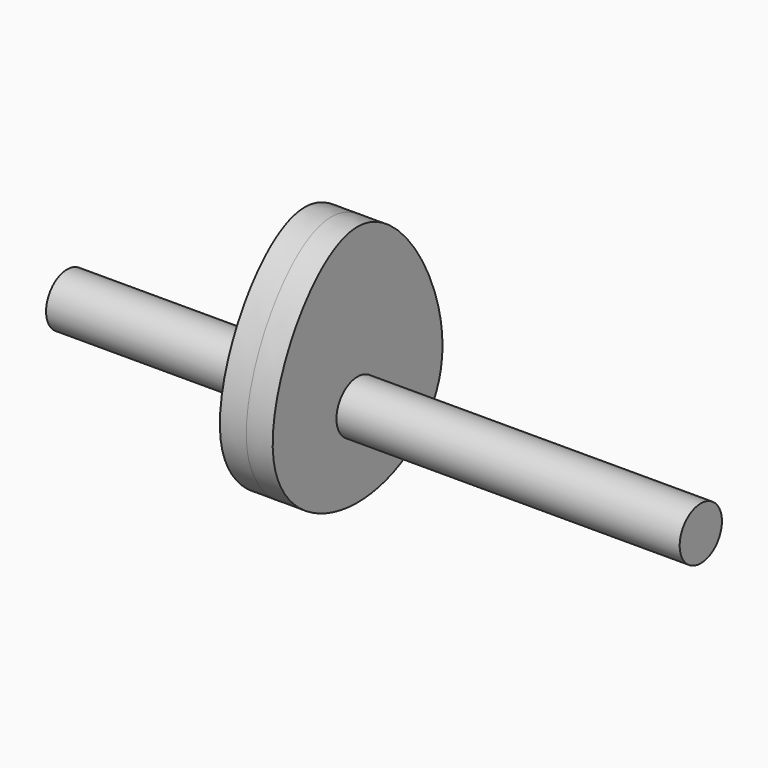
from build123d import *

# Parameters (mm, degrees)
F0_R          = 2.5
F1_DEPTH      = 35
F1_DEPTH_BACK = 25
F2_DEPTH      = 2.5
F2_DEPTH_BACK = 2.5


with BuildPart() as f1:
    # F0 (on Right) → F1 (new body, two sides)
    with BuildSketch(Plane.YZ) as f1_sk:
        Circle(F0_R)
    extrude(amount=F1_DEPTH)
    extrude(f1_sk.sketch, amount=-F1_DEPTH_BACK)

    # F0 (on Right) → F2 (join, two sides)
    with BuildSketch(Plane.YZ) as f2_sk:
        with BuildLine():
            add(Edge.make_bspline(
                [(0, 15), (-5.3107975246, 15), (-15.0976959297, -1.5753129223), (0, -10.9383719229), (15.0976959297, -1.5753129223), (5.3107975246, 15), (0, 15)],
                knots=[0, 0, 0, 0, 0.2713217868, 0.5, 0.7286782132, 1, 1, 1, 1], degree=3))
        make_face()
        Circle(F0_R, mode=Mode.SUBTRACT)
    extrude(amount=F2_DEPTH)
    extrude(f2_sk.sketch, amount=-F2_DEPTH_BACK)


solid = f1.part
